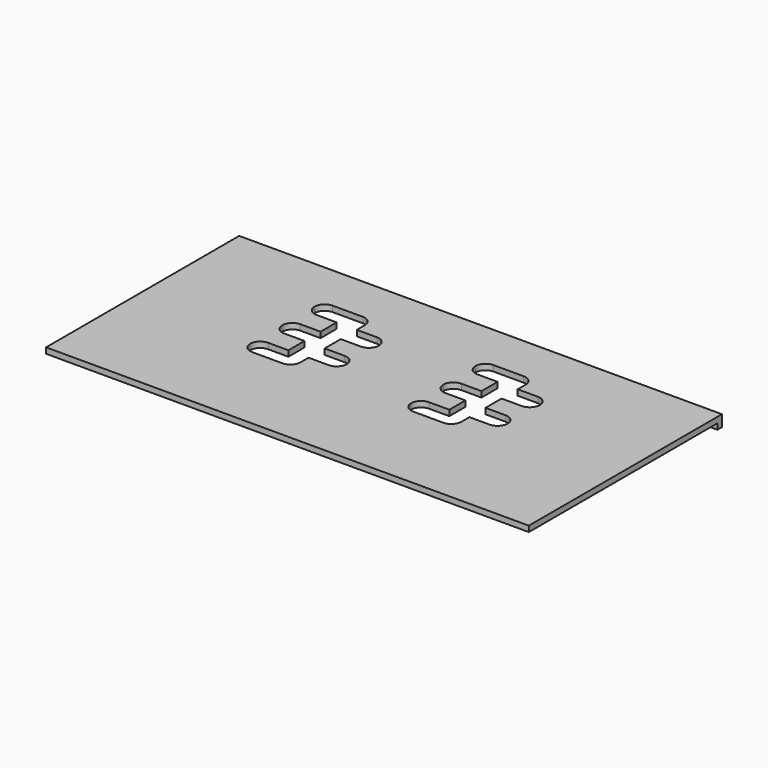
from build123d import *

# Parameters (mm, degrees)
F1_DEPTH      = 76.2
F1_DEPTH_BACK = 76.2
F3_DEPTH      = 3.6078
F5_DEPTH      = 3.6078


with BuildPart() as f1:
    # F0 (on Right) → F1 (new body, two sides)
    with BuildSketch(Plane.YZ) as f1_sk:
        Polygon((-38.1, -0.9017), (36.2966, -0.9017), (36.2966, -2.7051), (38.1, -2.7051), (38.1, -0.9017), (38.1, 0.9017), (-38.1, 0.9017), align=None)
    extrude(amount=F1_DEPTH)
    extrude(f1_sk.sketch, amount=-F1_DEPTH_BACK)

    # F2 (on face) → F3 (cut, through all)
    with BuildSketch(Plane.XY.offset(0.9017)):
        with BuildLine():
            Line((-25.4, 23.3934), (-34.925, 23.3934))
            ThreePointArc((-34.925, 23.3934), (-37.170064, 22.463464), (-38.1, 20.2184))
            ThreePointArc((-38.1, 20.2184), (-37.170064, 17.973336), (-34.925, 17.0434))
            Line((-34.925, 17.0434), (-28.575, 17.0434))
            Line((-28.575, 17.0434), (-28.575, 10.6934))
            Line((-28.575, 10.6934), (-34.925, 10.6934))
            ThreePointArc((-34.925, 10.6934), (-37.170064, 9.763464), (-38.1, 7.5184))
            ThreePointArc((-38.1, 7.5184), (-37.170064, 5.273336), (-34.925, 4.3434))
            Line((-34.925, 4.3434), (-28.575, 4.3434))
            Line((-28.575, 4.3434), (-28.575, -2.0066))
            Line((-28.575, -2.0066), (-34.925, -2.0066))
            ThreePointArc((-34.925, -2.0066), (-37.170064, -2.936536), (-38.1, -5.1816))
            ThreePointArc((-38.1, -5.1816), (-37.170064, -7.426664), (-34.925, -8.3566))
            Line((-34.925, -8.3566), (-25.4, -8.3566))
            ThreePointArc((-25.4, -8.3566), (-23.154936, -7.426664), (-22.225, -5.1816))
            Line((-22.225, -5.1816), (-22.225, -2.0066))
            Line((-22.225, -2.0066), (-15.875, -2.0066))
            ThreePointArc((-15.875, -2.0066), (-13.629936, -1.076664), (-12.7, 1.1684))
            ThreePointArc((-12.7, 1.1684), (-13.629936, 3.413464), (-15.875, 4.3434))
            Line((-15.875, 4.3434), (-22.225, 4.3434))
            Line((-22.225, 4.3434), (-22.225, 10.6934))
            Line((-22.225, 10.6934), (-15.875, 10.6934))
            ThreePointArc((-15.875, 10.6934), (-13.629936, 11.623336), (-12.7, 13.8684))
            ThreePointArc((-12.7, 13.8684), (-13.629936, 16.113464), (-15.875, 17.0434))
            Line((-15.875, 17.0434), (-22.225, 17.0434))
            Line((-22.225, 17.0434), (-22.225, 20.2184))
            ThreePointArc((-22.225, 20.2184), (-23.154936, 22.463464), (-25.4, 23.3934))
        make_face()
    extrude(amount=-F3_DEPTH, mode=Mode.SUBTRACT)

    # F4 (on face) → F5 (cut, through all)
    with BuildSketch(Plane.XY.offset(0.9017)):
        with BuildLine():
            Line((25.4, 23.3934), (15.875, 23.3934))
            ThreePointArc((15.875, 23.3934), (13.629936, 22.463464), (12.7, 20.2184))
            ThreePointArc((12.7, 20.2184), (13.629936, 17.973336), (15.875, 17.0434))
            Line((15.875, 17.0434), (22.225, 17.0434))
            Line((22.225, 17.0434), (22.225, 10.6934))
            Line((22.225, 10.6934), (15.875, 10.6934))
            ThreePointArc((15.875, 10.6934), (13.629936, 9.763464), (12.7, 7.5184))
            ThreePointArc((12.7, 7.5184), (13.629936, 5.273336), (15.875, 4.3434))
            Line((15.875, 4.3434), (22.225, 4.3434))
            Line((22.225, 4.3434), (22.225, -2.0066))
            Line((22.225, -2.0066), (15.875, -2.0066))
            ThreePointArc((15.875, -2.0066), (13.629936, -2.936536), (12.7, -5.1816))
            ThreePointArc((12.7, -5.1816), (13.629936, -7.426664), (15.875, -8.3566))
            Line((15.875, -8.3566), (25.4, -8.3566))
            ThreePointArc((25.4, -8.3566), (27.645064, -7.426664), (28.575, -5.1816))
            Line((28.575, -5.1816), (28.575, -2.0066))
            Line((28.575, -2.0066), (34.925, -2.0066))
            ThreePointArc((34.925, -2.0066), (37.170064, -1.076664), (38.1, 1.1684))
            ThreePointArc((38.1, 1.1684), (37.170064, 3.413464), (34.925, 4.3434))
            Line((34.925, 4.3434), (28.575, 4.3434))
            Line((28.575, 4.3434), (28.575, 10.6934))
            Line((28.575, 10.6934), (34.925, 10.6934))
            ThreePointArc((34.925, 10.6934), (37.170064, 11.623336), (38.1, 13.8684))
            ThreePointArc((38.1, 13.8684), (37.170064, 16.113464), (34.925, 17.0434))
            Line((34.925, 17.0434), (28.575, 17.0434))
            Line((28.575, 17.0434), (28.575, 20.2184))
            ThreePointArc((28.575, 20.2184), (27.645064, 22.463464), (25.4, 23.3934))
        make_face()
    extrude(amount=-F5_DEPTH, mode=Mode.SUBTRACT)


with BuildPart() as f6_1:
    # F6: copy of F1
    add(f1.part)


solid = Compound([f1.part, f6_1.part])
